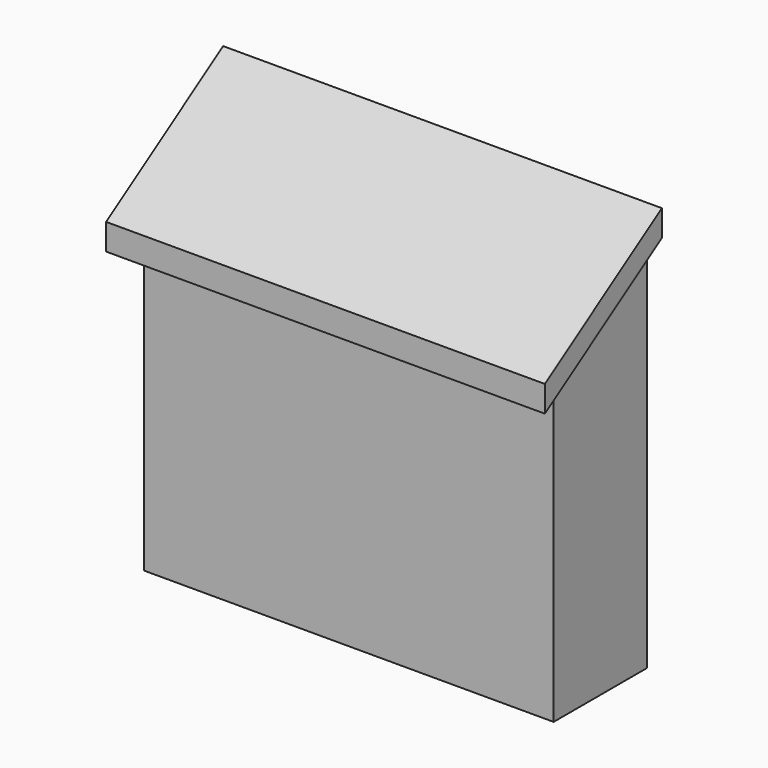
from build123d import *

# Parameters (mm, degrees)
F1_DEPTH = 355.6
F3_DEPTH = 12.7
F5_DEPTH = 12.7


with BuildPart() as f1:
    # F0 (on Right) → F1 (new body)
    with BuildSketch(Plane.YZ):
        Polygon((0, 266.650707), (0, 0), (101.6, 0), (101.6, 355.6), (-25.4, 272.836097), (-25.4, 250.097926), align=None)
    extrude(amount=F1_DEPTH)

    # F2 (on face) → F3 (join)
    with BuildSketch(Plane.YZ.offset(355.6)):
        Polygon((-25.4, 250.097926), (0, 266.650707), (101.6, 332.861829), (101.6, 355.6), (-25.4, 272.836097), align=None)
    extrude(amount=F3_DEPTH)

    # F4 (on face) → F5 (join)
    with BuildSketch(Plane(origin=(0, 0, 0), x_dir=(0, -1, 0), z_dir=(-1, 0, 0))):
        Polygon((-101.6, 332.861829), (0, 266.650707), (25.4, 250.097926), (25.4, 272.836097), (-101.6, 355.6), align=None)
    extrude(amount=F5_DEPTH)


solid = f1.part
